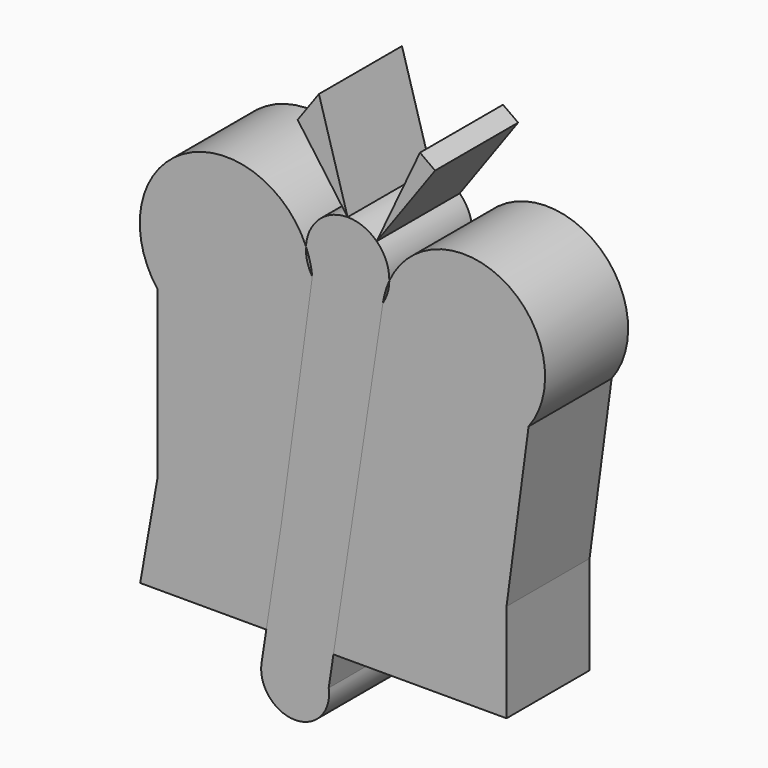
from build123d import *

# Parameters (mm, degrees)
F1_DEPTH = 25.4
F2_DEPTH = 25.4


with BuildPart() as f1:
    # F0 (on Front) → F1 (new body)
    with BuildSketch(Plane.XZ):
        with BuildLine():
            ThreePointArc((-14.292186, 32.752353), (-44.421582, 42.825525), (-50.593808, 11.662199))
            Line((-50.593808, 11.662199), (-50.593808, -28.858742))
            Line((-50.593808, -28.858742), (-54.863632, -52.965853))
            Line((-54.863632, -52.965853), (-23.995228, -52.965853))
            Line((-23.995228, -52.965853), (-20.300755, -28.858742))
            Line((-20.300755, -28.858742), (-12.740128, 26.699767))
            ThreePointArc((-12.740128, 26.699767), (-13.990496, 29.604426), (-14.292186, 32.752353))
        make_face()
        with BuildLine():
            ThreePointArc((40.184271, 11.662199), (34.487037, 40.841232), (6.110329, 31.973488))
            ThreePointArc((6.110329, 31.973488), (5.687724, 29.228955), (4.54131, 26.699767))
            Line((4.54131, 26.699767), (-7.569964, -52.965853))
            Line((-7.569964, -52.965853), (34.783822, -52.965853))
            Line((34.783822, -52.965853), (34.783822, -28.858742))
            Line((34.783822, -28.858742), (40.184271, 11.662199))
        make_face()
        Polygon((-16.326868, 59.347398), (-4.099409, 42.351896), (-11.119992, 66.590741), align=None)
        Polygon((13.606929, 62.004106), (3.012426, 39.468034), (17.302704, 59.347398), align=None)
    extrude(amount=F1_DEPTH)


with BuildPart() as f2:
    # F0 (on Front) → F2 (new body)
    with BuildSketch(Plane.XZ):
        with BuildLine():
            ThreePointArc((-4.099409, 42.351896), (-11.100193, 39.574208), (-14.292186, 32.752353))
            ThreePointArc((-14.292186, 32.752353), (-13.291541, 29.783658), (-12.740128, 26.699767))
            Line((-12.740128, 26.699767), (-20.300755, -28.858742))
            Line((-20.300755, -28.858742), (-23.995228, -52.965853))
            Line((-23.995228, -52.965853), (-25.16116, -60.573778))
            ThreePointArc((-25.16116, -60.573778), (-16.943865, -70.14633), (-8.726569, -60.573778))
            Line((-8.726569, -60.573778), (-7.569964, -52.965853))
            Line((-7.569964, -52.965853), (4.54131, 26.699767))
            ThreePointArc((4.54131, 26.699767), (5.143182, 29.390965), (6.110329, 31.973488))
            ThreePointArc((6.110329, 31.973488), (5.337289, 36.041488), (3.012426, 39.468034))
            ThreePointArc((3.012426, 39.468034), (-0.26226, 41.603505), (-4.099409, 42.351896))
        make_face()
    extrude(amount=F2_DEPTH)


solid = Compound([f1.part, f2.part])
